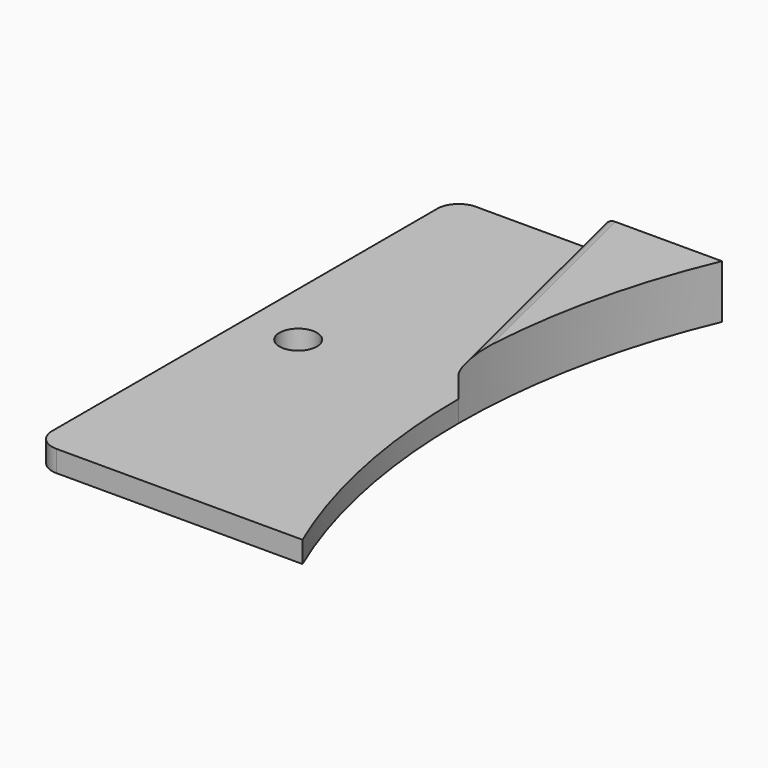
from build123d import *

# Parameters (mm, degrees)
F1_DEPTH = 5
F0_R     = 1.75
F2_DEPTH = 2
F3_R     = 2
F4_R     = 1


with BuildPart() as f1:
    # F0 (on Top) → F1 (new body)
    with BuildSketch(Plane.XY):
        with BuildLine():
            Line((-57.497826, 24.5), (-68.5, 24.5))
            Line((-68.5, 24.5), (-62.5, 0))
            ThreePointArc((-62.5, 0), (-61.236689, 12.502717), (-57.497826, 24.5))
        make_face()
    extrude(amount=F1_DEPTH)

    # F0 (on Top) → F2 (join)
    with BuildSketch(Plane.XY):
        with BuildLine():
            Line((-68.5, 24.5), (-82.5, 24.5))
            Line((-82.5, 24.5), (-82.5, -24.5))
            Line((-82.5, -24.5), (-57.497826, -24.5))
            ThreePointArc((-57.497826, -24.5), (-61.236689, -12.502717), (-62.5, 0))
            Line((-62.5, 0), (-68.5, 24.5))
        make_face()
        with Locations((-77.5, 0)):
            Circle(F0_R, mode=Mode.SUBTRACT)
    extrude(amount=F2_DEPTH)

    # F3
    f3_edges = [f1.edges().sort_by_distance(p)[0] for p in [
        (-82.5, -24.5, 1),
        (-82.5, 24.5, 1),
    ]]
    fillet(f3_edges, radius=F3_R)

    # F4
    f4_edges = [f1.edges().sort_by_distance(p)[0] for p in [
        (-65.5, 12.25, 5),
    ]]
    fillet(f4_edges, radius=F4_R)


solid = f1.part
